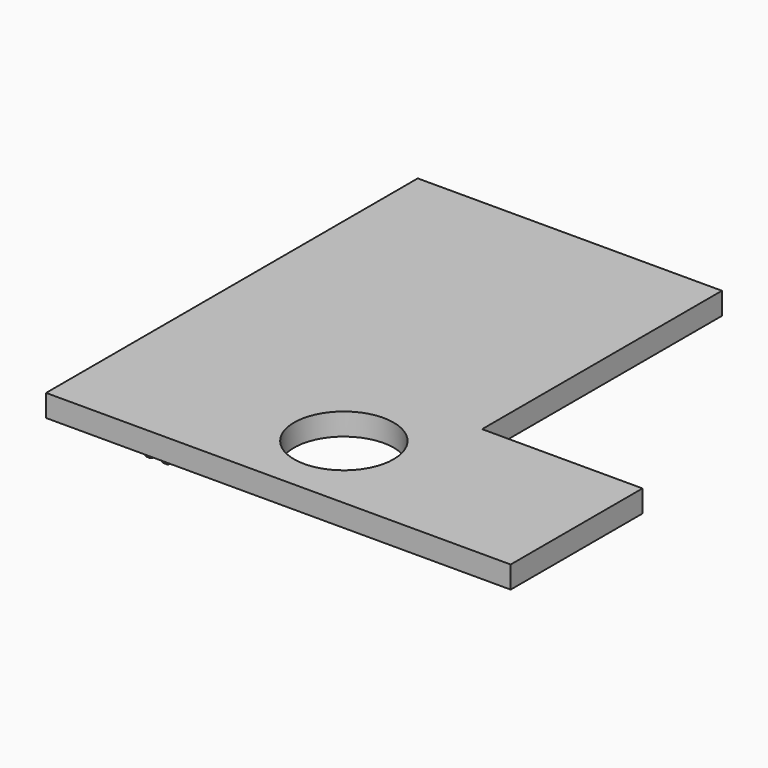
from build123d import *

# Parameters (mm, degrees)
F0_W     = 3.175
F0_H     = 76.2
F1_DEPTH = 2.54
F0_W_2   = 6.35
F0_H_2   = 40.9575
F0_W_3   = 31.749999404
F0_H_3   = 37.7825
F0_H_4   = 3.175
F0_H_5   = 6.35
F0_W_4   = 14.3044306234
F0_H_6   = 86.0425
F0_W_5   = 6.350000596
F2_DEPTH = 6.35
F3_R     = 1.27
F3_2_R   = 1.27


with BuildPart() as f1:
    # F0 (on Top) → F1 (new body)
    with BuildSketch(Plane.XY):
        with Locations((-33.9424085811, -26.0702777778)):
            Rectangle(F0_W, F0_H)
    extrude(amount=-F1_DEPTH)

    # F3#2
    f3_2_edges = [f1.edges().sort_by_distance(p)[0] for p in [
        (-35.529909, -26.070278, -2.54),
        (-35.529909, 12.029722, -1.27),
        (-33.942409, 12.029722, -2.54),
        (-32.354909, 12.029722, -1.27),
        (-32.354909, -26.070278, -2.54),
    ]]
    fillet(f3_2_edges, radius=F3_2_R)


with BuildPart() as f1b:
    # F0 (on Top) → F1, piece 2 (new body)
    with BuildSketch(Plane.XY):
        with Locations((-38.7811085811, -26.0702777778)):
            Rectangle(F0_W, F0_H)
    extrude(amount=-F1_DEPTH)

    # F3
    f3_edges = [f1b.edges().sort_by_distance(p)[0] for p in [
        (-40.368609, -26.070278, -2.54),
        (-38.781109, 12.029722, -2.54),
        (-40.368609, 12.029722, -1.27),
        (-37.193609, -26.070278, -2.54),
        (-37.193609, 12.029722, -1.27),
    ]]
    fillet(f3_edges, radius=F3_R)


with BuildPart() as f2:
    # F0 (on Top) → F2 (new body)
    with BuildSketch(Plane.XY):
        Polygon((-19.6549085811, 62.8297222222), (-56.1504779578, 62.8297222222), (-56.1504779578, 56.4797222222), (-62.5004779578, 56.4797222222), (-62.5004779578, -64.1702777778), (-40.8539100051, -64.1702777778), (-40.3686085811, -64.1702777778), (-40.3686085811, 12.0297222222), (-37.1936085811, 12.0297222222), (-37.1936085811, -64.1702777778), (-35.5299085811, -64.1702777778), (-35.5299085811, 12.0297222222), (-32.3549085811, 12.0297222222), (-32.3549085811, -64.1702777778), (-19.6549085811, -64.1702777778), (-19.6549085811, -23.2127777778), (-19.6549085811, 27.9047222222), align=None)
        Polygon((-62.5004779578, 56.4797222222), (-62.5004779578, 62.8297222222), (-65.6754779578, 62.8297222222), (-65.6754779578, -67.3452777778), (64.4995220422, -67.3452777778), (64.4995220422, -64.1702777778), (32.7495226383, -64.1702777778), (21.6370226383, -64.1702777778), (15.2870220422, -64.1702777778), (0.9995220422, -64.1702777778), (-13.3049085811, -64.1702777778), (-19.6549085811, -64.1702777778), (-32.3549085811, -64.1702777778), (-35.5299085811, -64.1702777778), (-37.1936085811, -64.1702777778), (-40.3686085811, -64.1702777778), (-40.8539100051, -64.1702777778), (-62.5004779578, -64.1702777778), align=None)
        with Locations((-16.4799085811, -43.6915277778)):
            Rectangle(F0_W_2, F0_H_2)
        with BuildLine():
            Line((0.9995220422, -23.2127777778), (-13.3049085811, -23.2127777778))
            Line((-13.3049085811, -23.2127777778), (-13.3049085811, -64.1702777778))
            Line((-13.3049085811, -64.1702777778), (0.9995220422, -64.1702777778))
            Line((0.9995220422, -64.1702777778), (0.9995220422, -58.1377777778))
            ThreePointArc((0.9995220422, -58.1377777778), (-13.2879779578, -43.8502777778), (0.9995220422, -29.5627777778))
            Line((0.9995220422, -29.5627777778), (0.9995220422, -23.2127777778))
        make_face()
        with BuildLine():
            Line((15.2870220422, -23.2127777778), (0.9995220422, -23.2127777778))
            Line((0.9995220422, -23.2127777778), (0.9995220422, -29.5627777778))
            ThreePointArc((0.9995220422, -29.5627777778), (11.1023101784, -33.7474896416), (15.2870220422, -43.8502777778))
            Line((15.2870220422, -43.8502777778), (15.2870220422, -23.2127777778))
        make_face()
        with BuildLine():
            Line((0.9995220422, -58.1377777778), (0.9995220422, -64.1702777778))
            Line((0.9995220422, -64.1702777778), (15.2870220422, -64.1702777778))
            Line((15.2870220422, -64.1702777778), (15.2870220422, -43.8502777778))
            ThreePointArc((15.2870220422, -43.8502777778), (11.1023101784, -53.953065914), (0.9995220422, -58.1377777778))
        make_face()
        Polygon((21.6370226383, -23.2127777778), (15.2870220422, -23.2127777778), (15.2870220422, -43.8502777778), (15.2870220422, -64.1702777778), (21.6370226383, -64.1702777778), align=None)
        Polygon((21.6370226383, -64.1702777778), (32.7495226383, -64.1702777778), (32.7495226383, -26.3877777778), (32.7495226383, -23.2127777778), (21.6370226383, -23.2127777778), align=None)
        with Locations((48.6245223403, -45.2790277778)):
            Rectangle(F0_W_3, F0_H_3)
        with Locations((48.6245223403, -24.8002777778)):
            Rectangle(F0_W_3, F0_H_4)
        Polygon((32.7495226383, -23.2127777778), (64.4995220422, -23.2127777778), (64.4995220422, -20.0377777778), (21.6370226383, -20.0377777778), (21.6370226383, -23.2127777778), align=None)
        Polygon((64.4995220422, -64.1702777778), (64.4995220422, -67.3452777778), (67.6745220422, -67.3452777778), (67.6745220422, -23.2127777778), (64.4995220422, -23.2127777778), (64.4995220422, -26.3877777778), align=None)
        Polygon((8.9370220422, 62.8297222222), (0.9995220422, 62.8297222222), (0.9995220422, -23.2127777778), (15.2870220422, -23.2127777778), (15.2870220422, 56.4797222222), (8.9370220422, 56.4797222222), align=None)
        with Locations((12.1120220422, 59.6547222222)):
            Rectangle(F0_W_2, F0_H_5)
        Polygon((-13.3049085811, 62.8297222222), (-19.6549085811, 62.8297222222), (-19.6549085811, 27.9047222222), (-19.6549085811, -23.2127777778), (-13.3049085811, -23.2127777778), align=None)
        with Locations((-6.1526932694, 19.8084722222)):
            Rectangle(F0_W_4, F0_H_6)
        Polygon((-62.5004779578, 66.0047222222), (-62.5004779578, 62.8297222222), (-56.1504779578, 62.8297222222), (-19.6549085811, 62.8297222222), (-13.3049085811, 62.8297222222), (0.9995220422, 62.8297222222), (8.9370220422, 62.8297222222), (15.2870220422, 62.8297222222), (15.2870220422, 66.0047222222), align=None)
        with Locations((-59.3254779578, 59.6547222222)):
            Rectangle(F0_W_2, F0_H_5)
        with Locations((-64.0879779578, 64.4172222222)):
            Rectangle(F0_W, F0_H_4)
        with Locations((12.1120220422, 59.6547222222)):
            Rectangle(F0_W_2, F0_H_5)
        Polygon((21.6370226383, 62.8297222222), (15.2870220422, 62.8297222222), (15.2870220422, 56.4797222222), (15.2870220422, -23.2127777778), (21.6370226383, -23.2127777778), (21.6370226383, -20.0377777778), (21.6370226383, 27.9047222222), align=None)
        with Locations((18.4620223403, 64.4172222222)):
            Rectangle(F0_W_5, F0_H_4)
        with Locations((66.0870220422, -21.6252777778)):
            Rectangle(F0_W, F0_H_4)
        with Locations((-33.9424085811, -26.0702777778)):
            Rectangle(F0_W, F0_H)
        with Locations((-38.7811085811, -26.0702777778)):
            Rectangle(F0_W, F0_H)
    extrude(amount=F2_DEPTH)


solid = Compound([f1.part, f1b.part, f2.part])
